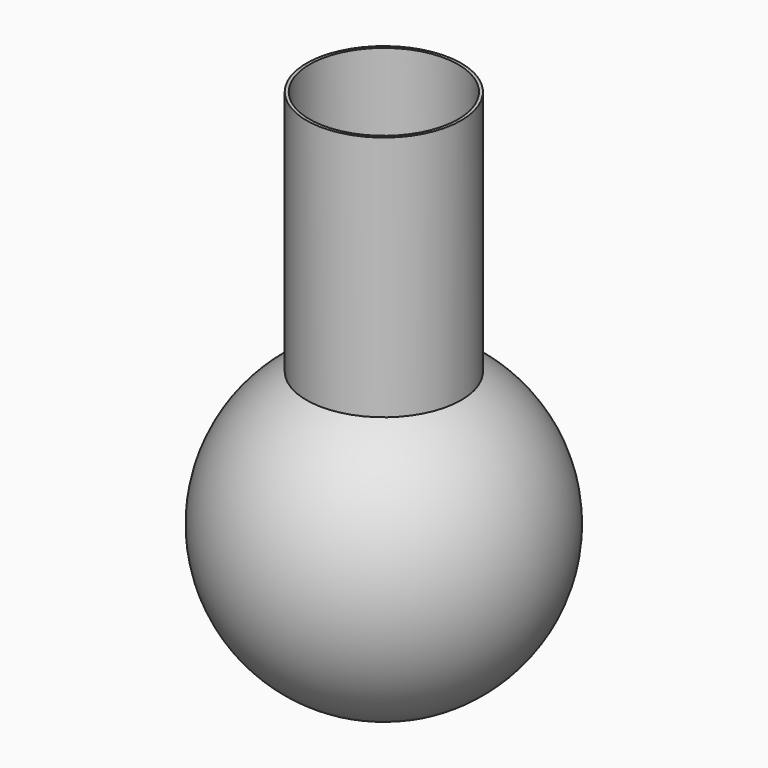
from build123d import *


with BuildPart() as part:
    # Sketch → Revolve (revolve)
    with BuildSketch(Plane.XZ):
        with BuildLine():
            ThreePointArc((25, -43.30127), (50, 0), (25, 43.30127))
            Line((25, 122.809067), (25, 43.30127))
            Line((24, 122.809067), (25, 122.809067))
            Line((24, 42.720019), (24, 122.809067))
            ThreePointArc((24.5, -42.435245), (48.999155, 0.287705), (24, 42.720019))
            Line((24.5, -42.435245), (0, -42.435245))
            Line((0, -42.435245), (0, -43.30127))
            Line((0, -43.30127), (25, -43.30127))
        make_face()
    revolve(axis=Axis((0, 0, 0), (0, 0, 1)))


solid = part.part
